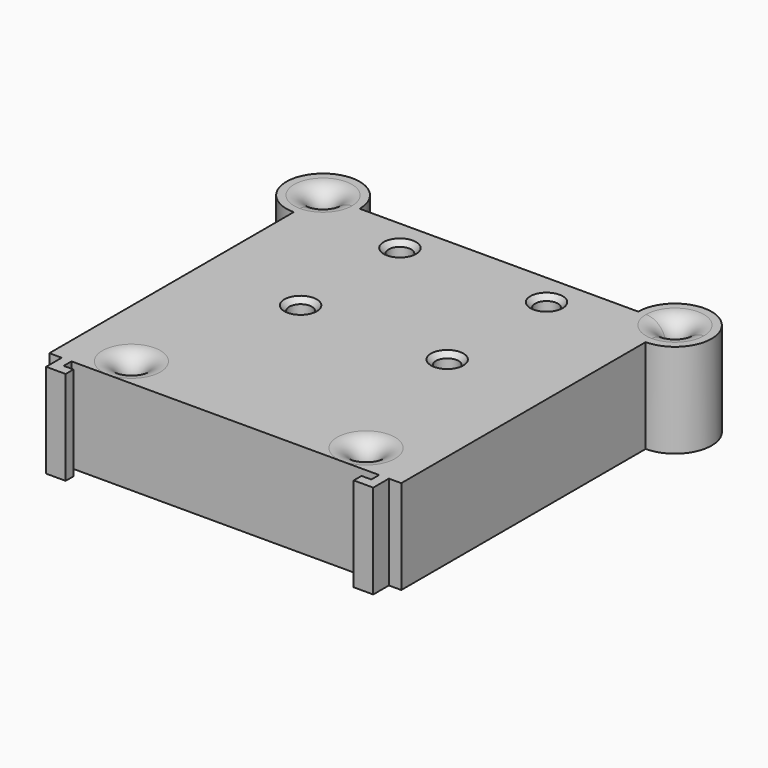
from build123d import *

# Parameters (mm, degrees)
F0_R     = 2.3125
F0_R_2   = 1.925
F1_DEPTH = 19.25
F2_R     = 4
F3_SIZE  = 1


with BuildPart() as f1:
    # F0 (on Top) → F1 (new body)
    with BuildSketch(Plane.XY):
        with BuildLine():
            Line((33.6678512394, 101.9999980927), (36, 101.9999980927))
            Line((36, 101.9999980927), (36, 164.4999980927))
            ThreePointArc((36, 164.4999980927), (30.6966991411, 166.6966972338), (28.5, 171.9999980927))
            Line((28.5, 171.9999980927), (0, 171.9999980927))
            Line((0, 171.9999980927), (0, 101.9999980927))
            Line((0, 101.9999980927), (31.2678519189, 101.9999980927))
            Line((31.2678519189, 101.9999980927), (31.4678515792, 101.9999980927))
            Line((31.4678515792, 101.9999980927), (33.4678515792, 101.9999980927))
            Line((33.4678515792, 101.9999980927), (33.6678512394, 101.9999980927))
        make_face()
        with Locations((15, 139.9999980927)):
            Circle(F0_R, mode=Mode.SUBTRACT)
        with Locations((24, 107.9999980927)):
            Circle(F0_R_2, mode=Mode.SUBTRACT)
        with Locations((15, 165.3999980927)):
            Circle(F0_R, mode=Mode.SUBTRACT)
        with BuildLine():
            Line((0, 101.9999980927), (0, 171.9999980927))
            Line((0, 171.9999980927), (-28.5, 171.9999980927))
            ThreePointArc((-28.5, 171.9999980927), (-30.6966991411, 166.6966972338), (-36, 164.4999980927))
            Line((-36, 164.4999980927), (-36, 101.9999980927))
            Line((-36, 101.9999980927), (-33.6678512394, 101.9999980927))
            Line((-33.6678512394, 101.9999980927), (-33.4678515792, 101.9999980927))
            Line((-33.4678515792, 101.9999980927), (-31.4678515792, 101.9999980927))
            Line((-31.4678515792, 101.9999980927), (-31.2678519189, 101.9999980927))
            Line((-31.2678519189, 101.9999980927), (0, 101.9999980927))
        make_face()
        with Locations((-24, 107.9999980927)):
            Circle(F0_R_2, mode=Mode.SUBTRACT)
        with Locations((-15, 139.9999980927)):
            Circle(F0_R, mode=Mode.SUBTRACT)
        with Locations((-15, 165.3999980927)):
            Circle(F0_R, mode=Mode.SUBTRACT)
        Polygon((-31.4678515792, 99.9999980927), (-31.4678515792, 101.9999980927), (-33.4678515792, 101.9999980927), (-33.4678515792, 97.9999980927), (-29.4678515792, 97.9999980927), (-29.4678515792, 99.9999980927), align=None)
        Polygon((33.4678515792, 97.9999980927), (33.4678515792, 101.9999980927), (31.4678515792, 101.9999980927), (31.4678515792, 99.9999980927), (29.4678515792, 99.9999980927), (29.4678515792, 97.9999980927), align=None)
        with BuildLine():
            ThreePointArc((-36, 164.4999980927), (-30.6966991411, 166.6966972338), (-28.5, 171.9999980927))
            Line((-28.5, 171.9999980927), (-34.075, 171.9999980927))
            ThreePointArc((-34.075, 171.9999980927), (-34.6388194462, 170.6388175389), (-36, 170.0749980927))
            Line((-36, 170.0749980927), (-36, 164.4999980927))
        make_face()
        with BuildLine():
            Line((-34.075, 171.9999980927), (-28.5, 171.9999980927))
            ThreePointArc((-28.5, 171.9999980927), (-41.3033008589, 177.3032989516), (-36, 164.4999980927))
            Line((-36, 164.4999980927), (-36, 170.0749980927))
            ThreePointArc((-36, 170.0749980927), (-37.3611805538, 173.3611786464), (-34.075, 171.9999980927))
        make_face()
        with BuildLine():
            Line((36, 170.0749980927), (36, 164.4999980927))
            ThreePointArc((36, 164.4999980927), (41.3033008589, 166.6966972338), (43.5, 171.9999980927))
            ThreePointArc((43.5, 171.9999980927), (36, 179.4999980927), (28.5, 171.9999980927))
            Line((28.5, 171.9999980927), (34.075, 171.9999980927))
            ThreePointArc((34.075, 171.9999980927), (36, 173.9249980927), (37.925, 171.9999980927))
            ThreePointArc((37.925, 171.9999980927), (37.3611805538, 170.6388175389), (36, 170.0749980927))
        make_face()
        with BuildLine():
            ThreePointArc((28.5, 171.9999980927), (30.6966991411, 166.6966972338), (36, 164.4999980927))
            Line((36, 164.4999980927), (36, 170.0749980927))
            ThreePointArc((36, 170.0749980927), (34.6388194462, 170.6388175389), (34.075, 171.9999980927))
            Line((34.075, 171.9999980927), (28.5, 171.9999980927))
        make_face()
    extrude(amount=F1_DEPTH)

    # F2
    f2_edges = [f1.edges().sort_by_distance(p)[0] for p in [
        (-36, 173.924998, 19.25),
        (-25.925, 107.999998, 19.25),
        (22.075, 107.999998, 19.25),
        (37.925, 171.999998, 19.25),
    ]]
    fillet(f2_edges, radius=F2_R)

    # F3
    f3_edges = [f1.edges().sort_by_distance(p)[0] for p in [
        (-17.3125, 165.399998, 19.25),
        (-17.3125, 139.999998, 19.25),
        (12.6875, 139.999998, 19.25),
        (12.6875, 165.399998, 19.25),
    ]]
    chamfer(f3_edges, length=F3_SIZE)


solid = f1.part
